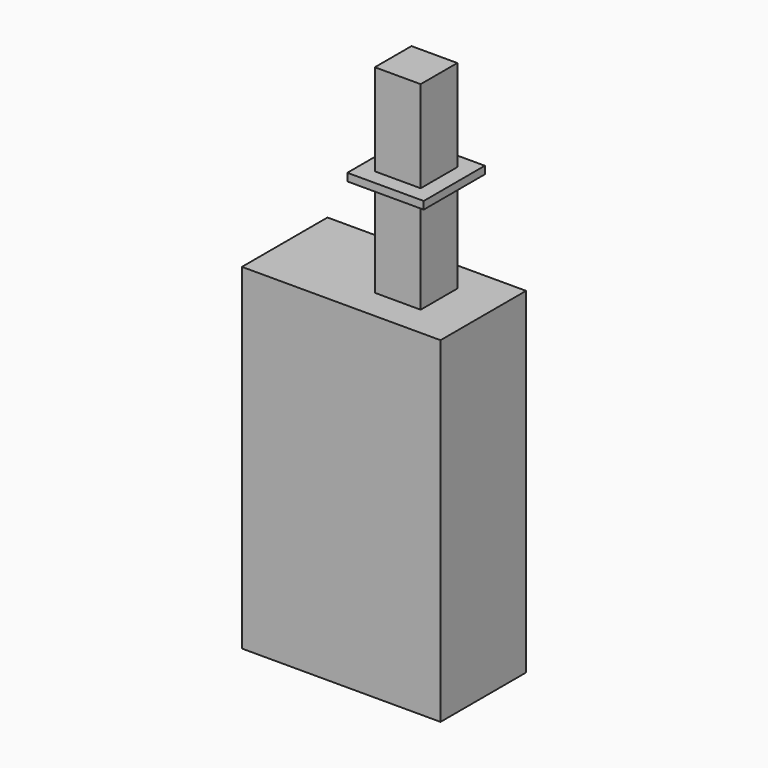
from build123d import *

# Parameters (mm, degrees)
F0_W     = 13
F0_H     = 7
F1_DEPTH = 22
F2_W     = 3
F2_H     = 3
F3_DEPTH = 13
F5_W     = 5
F5_H     = 5
F6_DEPTH = 0.5


with BuildPart() as f1:
    # F0 (on Top) → F1 (new body)
    with BuildSketch(Plane.XY):
        Rectangle(F0_W, F0_H)
    extrude(amount=F1_DEPTH)


with BuildPart() as f3:
    # F2 (on face) → F3 (new body)
    with BuildSketch(Plane.XY.offset(22)):
        with Locations((2.1, 0)):
            Rectangle(F2_W, F2_H)
    extrude(amount=F3_DEPTH)

    # F5 (on offset) → F6 (join)
    with BuildSketch(Plane.XY.offset(29)):
        with Locations((2.1, 0)):
            Rectangle(F5_W, F5_H)
    extrude(amount=-F6_DEPTH)


solid = Compound([f1.part, f3.part])
